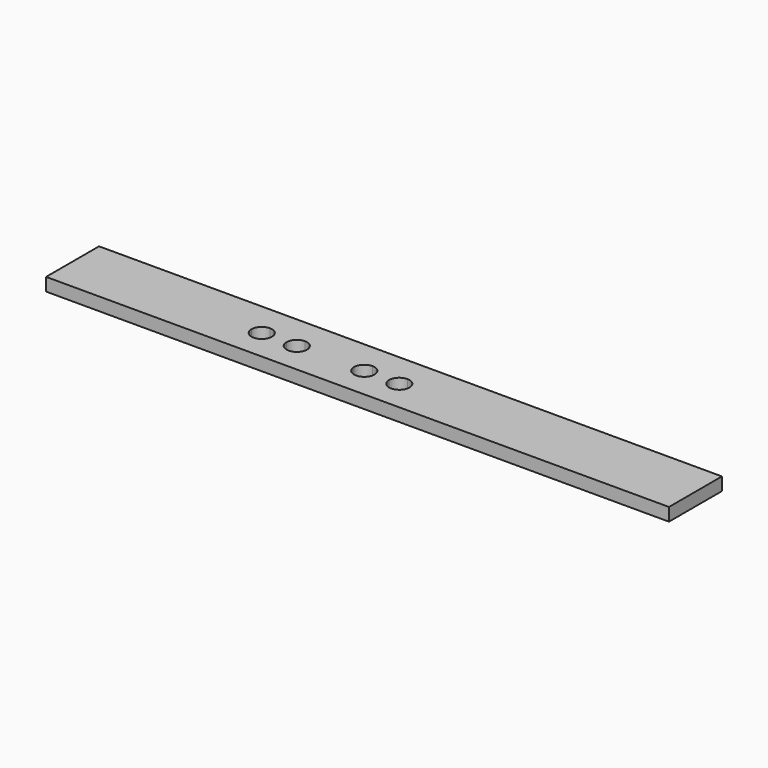
from build123d import *

# Parameters (mm, degrees)
F0_W     = 76.2
F0_H     = 17.145
F0_H_2   = 15.24
F1_DEPTH = 6.35


with BuildPart() as f1:
    # F0 (on Top) → F1 (new body)
    with BuildSketch(Plane.XY):
        with BuildLine():
            Line((-34.833219, 15.908494), (-51.978219, 15.908494))
            Line((-51.978219, 15.908494), (-51.978219, -1.236506))
            Line((-51.978219, -1.236506), (-39.833219, -1.236506))
            ThreePointArc((-39.833219, -1.236506), (-38.368753, 2.299028), (-34.833219, 3.763494))
            Line((-34.833219, 3.763494), (-34.833219, 15.908494))
        make_face()
        with Locations((-90.078219, 7.335994)):
            Rectangle(F0_W, F0_H)
        with BuildLine():
            Line((-17.688219, 15.908494), (-34.833219, 15.908494))
            Line((-34.833219, 15.908494), (-34.833219, 3.763494))
            ThreePointArc((-34.833219, 3.763494), (-31.297685, 2.299028), (-29.833219, -1.236506))
            Line((-29.833219, -1.236506), (-22.688219, -1.236506))
            ThreePointArc((-22.688219, -1.236506), (-21.223753, 2.299028), (-17.688219, 3.763494))
            Line((-17.688219, 3.763494), (-17.688219, 15.908494))
        make_face()
        with Locations((-90.078219, -8.856506)):
            Rectangle(F0_W, F0_H_2)
        with BuildLine():
            Line((-39.833219, -1.236506), (-51.978219, -1.236506))
            Line((-51.978219, -1.236506), (-51.978219, -16.476506))
            Line((-51.978219, -16.476506), (49.621781, -16.476506))
            Line((49.621781, -16.476506), (49.621781, -1.236506))
            Line((49.621781, -1.236506), (37.476781, -1.236506))
            ThreePointArc((37.476781, -1.236506), (32.476781, -6.236506), (27.476781, -1.236506))
            Line((27.476781, -1.236506), (20.331781, -1.236506))
            ThreePointArc((20.331781, -1.236506), (15.331781, -6.236506), (10.331781, -1.236506))
            Line((10.331781, -1.236506), (-12.688219, -1.236506))
            ThreePointArc((-12.688219, -1.236506), (-17.688219, -6.236506), (-22.688219, -1.236506))
            Line((-22.688219, -1.236506), (-29.833219, -1.236506))
            ThreePointArc((-29.833219, -1.236506), (-34.833219, -6.236506), (-39.833219, -1.236506))
        make_face()
        with BuildLine():
            Line((15.331781, 15.908494), (-17.688219, 15.908494))
            Line((-17.688219, 15.908494), (-17.688219, 3.763494))
            ThreePointArc((-17.688219, 3.763494), (-14.152685, 2.299028), (-12.688219, -1.236506))
            Line((-12.688219, -1.236506), (10.331781, -1.236506))
            ThreePointArc((10.331781, -1.236506), (11.796247, 2.299028), (15.331781, 3.763494))
            Line((15.331781, 3.763494), (15.331781, 15.908494))
        make_face()
        with BuildLine():
            Line((32.476781, 15.908494), (15.331781, 15.908494))
            Line((15.331781, 15.908494), (15.331781, 3.763494))
            ThreePointArc((15.331781, 3.763494), (18.867315, 2.299028), (20.331781, -1.236506))
            Line((20.331781, -1.236506), (27.476781, -1.236506))
            ThreePointArc((27.476781, -1.236506), (28.941247, 2.299028), (32.476781, 3.763494))
            Line((32.476781, 3.763494), (32.476781, 15.908494))
        make_face()
        Polygon((49.621781, -1.236506), (49.621781, -16.476506), (176.621781, -16.476506), (176.621781, 15.908494), (49.621781, 15.908494), align=None)
        with BuildLine():
            Line((49.621781, 15.908494), (32.476781, 15.908494))
            Line((32.476781, 15.908494), (32.476781, 3.763494))
            ThreePointArc((32.476781, 3.763494), (36.012315, 2.299028), (37.476781, -1.236506))
            Line((37.476781, -1.236506), (49.621781, -1.236506))
            Line((49.621781, -1.236506), (49.621781, 15.908494))
        make_face()
    extrude(amount=-F1_DEPTH)


solid = f1.part
